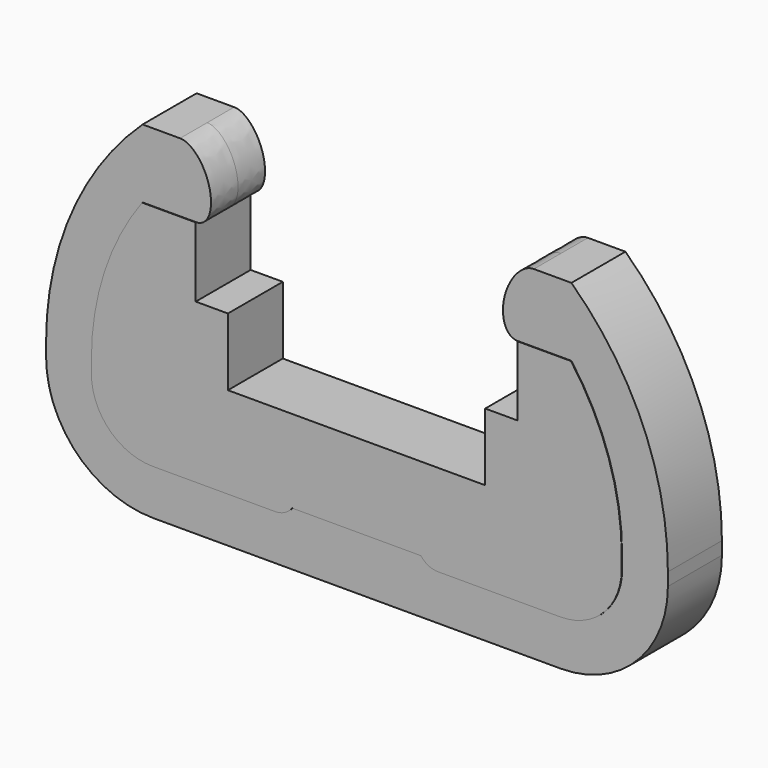
from build123d import *

# Parameters (mm, degrees)
F2_DEPTH = 3.2
F3_DEPTH = 3.15


with BuildPart() as f2:
    # F1 (on Front) → F2 (new body, symmetric)
    with BuildSketch(Plane.XZ):
        with BuildLine():
            Line((12, 6.3), (12, 0))
            Line((12, 0), (-12, 0))
            Line((-12, 0), (-12, 6.3))
            Line((-12, 6.3), (-15, 6.3))
            Line((-15, 6.3), (-15, 12.8))
            Line((-15, 12.8), (-20, 12.8))
            ThreePointArc((-20, 12.8), (-23.5199404292, 5.9790524317), (-24.7337240148, -1.6))
            Line((-24.7337240148, -1.6), (-24.7337240148, -2.8))
            ThreePointArc((-24.7337240148, -2.8), (-23.0543551323, -6.8543551323), (-19, -8.5337240148))
            Line((-19, -8.5337240148), (-7.6, -8.5337240148))
            ThreePointArc((-7.6, -8.5337240148), (-6.705572809, -8.3225783968), (-6, -7.7337240148))
            Line((-6, -7.7337240148), (6, -7.7337240148))
            ThreePointArc((6, -7.7337240148), (6.705572809, -8.3225783968), (7.6, -8.5337240148))
            Line((7.6, -8.5337240148), (19, -8.5337240148))
            ThreePointArc((19, -8.5337240148), (23.0543551323, -6.8543551323), (24.7337240148, -2.8))
            Line((24.7337240148, -2.8), (24.7337240148, -1.6))
            ThreePointArc((24.7337240148, -1.6), (23.5199404292, 5.9790524317), (20, 12.8))
            Line((20, 12.8), (15, 12.8))
            Line((15, 12.8), (15, 6.3))
            Line((15, 6.3), (12, 6.3))
        make_face()
    extrude(amount=F2_DEPTH, both=True)

    # F1 (on Front) → F3 (join, symmetric)
    with BuildSketch(Plane.XZ):
        with BuildLine():
            add(Edge.make_bspline(
                [(16.5, 19.2), (14.5000000527, 19.2), (13.7500000527, 16), (13.0000000527, 12.8), (15, 12.8)],
                knots=[0.2076781727, 0.2076781727, 0.2076781727, 1.7784744995, 1.7784744995, 3.3492708263, 3.3492708263, 3.3492708263], degree=2, weights=[1, 0.7071067812, 1, 0.7071067812, 1]))
            Line((15, 12.8), (20, 12.8))
            ThreePointArc((20, 12.8), (23.5199404292, 5.9790524317), (24.7337240148, -1.6))
            Line((24.7337240148, -1.6), (24.7337240148, -2.8))
            ThreePointArc((24.7337240148, -2.8), (23.0543551323, -6.8543551323), (19, -8.5337240148))
            Line((19, -8.5337240148), (7.6, -8.5337240148))
            ThreePointArc((7.6, -8.5337240148), (6.705572809, -8.3225783968), (6, -7.7337240148))
            Line((6, -7.7337240148), (-6, -7.7337240148))
            ThreePointArc((-6, -7.7337240148), (-6.705572809, -8.3225783968), (-7.6, -8.5337240148))
            Line((-7.6, -8.5337240148), (-19, -8.5337240148))
            ThreePointArc((-19, -8.5337240148), (-23.0543551323, -6.8543551323), (-24.7337240148, -2.8))
            Line((-24.7337240148, -2.8), (-24.7337240148, -1.6))
            ThreePointArc((-24.7337240148, -1.6), (-23.5199404292, 5.9790524317), (-20, 12.8))
            Line((-20, 12.8), (-15, 12.8))
            add(Edge.make_bspline(
                [(-14.9999999473, 12.8), (-13, 12.8), (-13.7499999802, 15.9999999157), (-14.4999999605, 19.1999998315), (-16.4999999473, 19.2)],
                knots=[6.0755071131, 6.0755071131, 6.0755071131, 7.6463034136, 7.6463034136, 9.217099714, 9.217099714, 9.217099714], degree=2, weights=[1, 0.7071067905, 1, 0.7071067905, 1]))
            Line((-16.5, 19.2), (-20, 19.2))
            ThreePointArc((-20, 19.2), (-26.653524819, 9.7318136236), (-29, -1.6))
            Line((-29, -1.6), (-29, -2.8))
            ThreePointArc((-29, -2.8), (-26.0710678119, -9.8710678119), (-19, -12.8))
            Line((-19, -12.8), (19, -12.8))
            ThreePointArc((19, -12.8), (26.0710678119, -9.8710678119), (29, -2.8))
            Line((29, -2.8), (29, -1.6))
            ThreePointArc((29, -1.6), (26.653524819, 9.7318136236), (20, 19.2))
            Line((20, 19.2), (16.5, 19.2))
        make_face()
    extrude(amount=F3_DEPTH, both=True)


solid = f2.part
